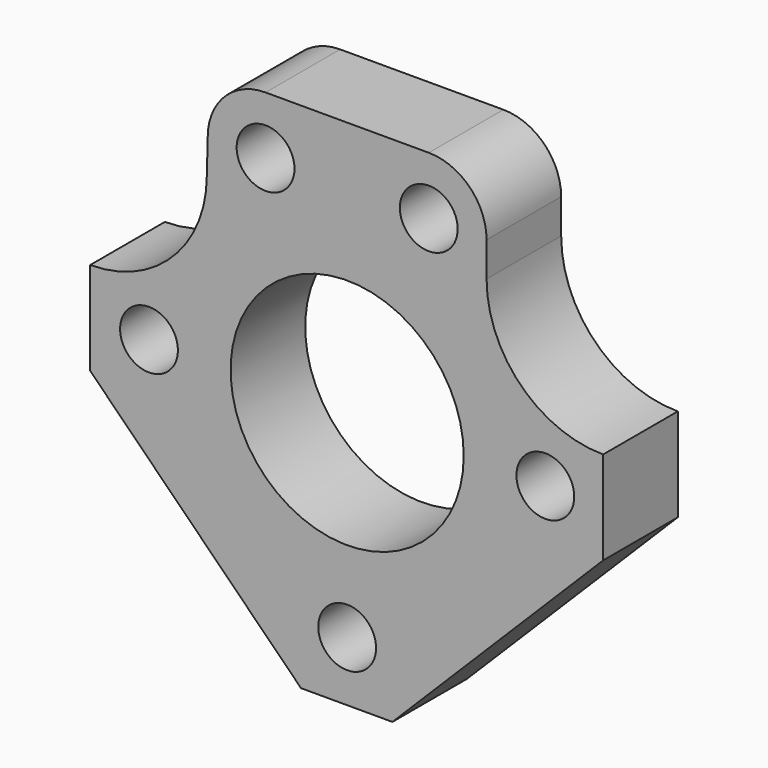
from build123d import *

# Parameters (mm, degrees)
F0_R     = 7.874
F0_R_2   = 31.75
F1_DEPTH = 25.4


with BuildPart() as f1:
    # F0 (on Front) → F1 (new body)
    with BuildSketch(Plane.XZ):
        with BuildLine():
            Line((-72.892794, -57.15), (-15.488794, -114.554))
            Line((-15.488794, -114.554), (9.403206, -114.554))
            Line((9.403206, -114.554), (66.807206, -57.15))
            Line((66.807206, -57.15), (66.807206, -31.75))
            ThreePointArc((66.807206, -31.75), (44.356565, -22.45064), (35.057206, 0))
            Line((35.057206, 0), (35.057206, 9.398))
            ThreePointArc((35.057206, 9.398), (30.444723, 20.533518), (19.309206, 25.146))
            Line((19.309206, 25.146), (-25.140794, 25.146))
            ThreePointArc((-25.140794, 25.146), (-36.276312, 20.533518), (-40.888794, 9.398))
            Line((-40.888794, 9.398), (-41.142794, 0))
            ThreePointArc((-41.142794, 0), (-50.442154, -22.45064), (-72.892794, -31.75))
            Line((-72.892794, -31.75), (-72.892794, -57.15))
        make_face()
        with Locations((-2.915794, -98.298)):
            Circle(F0_R, mode=Mode.SUBTRACT)
        with Locations((-56.890794, -44.45)):
            Circle(F0_R, mode=Mode.SUBTRACT)
        with Locations((-25.140794, 9.398)):
            Circle(F0_R, mode=Mode.SUBTRACT)
        with Locations((-2.915794, -44.45)):
            Circle(F0_R_2, mode=Mode.SUBTRACT)
        with Locations((51.059206, -44.45)):
            Circle(F0_R, mode=Mode.SUBTRACT)
        with Locations((19.309206, 9.398)):
            Circle(F0_R, mode=Mode.SUBTRACT)
    extrude(amount=F1_DEPTH)


solid = f1.part
